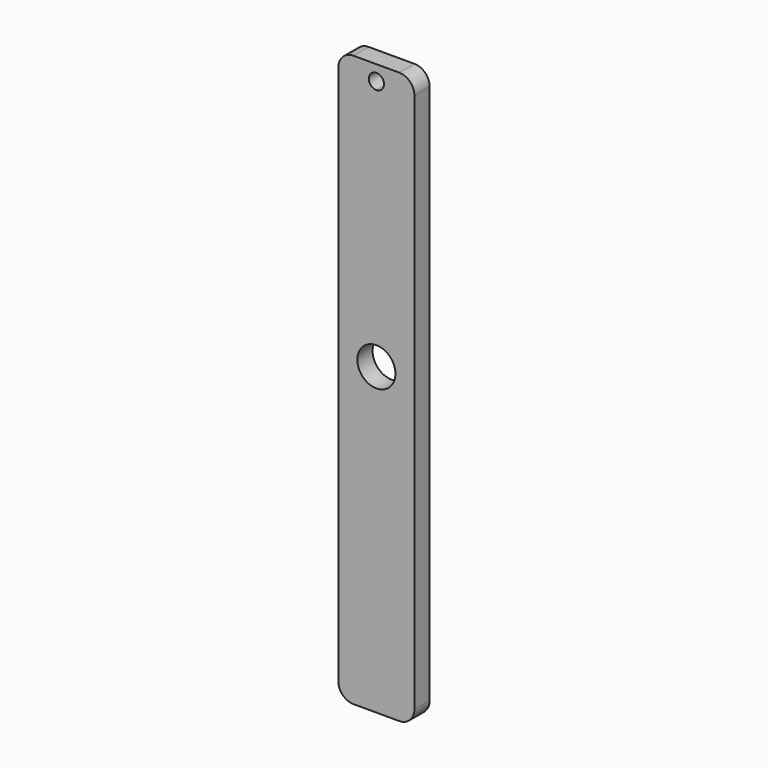
from build123d import *

# Parameters (mm, degrees)
F1_DEPTH = 6.35


with BuildPart() as f1:
    # F0 (on Front) → F1 (new body)
    with BuildSketch(Plane.XZ):
        with BuildLine():
            ThreePointArc((12.7, 90.17), (11.212102, 93.762102), (7.62, 95.25))
            Line((7.62, 95.25), (0, 95.25))
            Line((0, 95.25), (-7.62, 95.25))
            ThreePointArc((-7.62, 95.25), (-11.212102, 93.762102), (-12.7, 90.17))
            Line((-12.7, 90.17), (-12.7, -90.17))
            ThreePointArc((-12.7, -90.17), (-11.212102, -93.762102), (-7.62, -95.25))
            Line((-7.62, -95.25), (7.62, -95.25))
            ThreePointArc((7.62, -95.25), (11.212102, -93.762102), (12.7, -90.17))
            Line((12.7, -90.17), (12.7, 90.17))
        make_face()
        with BuildLine():
            ThreePointArc((6.35, 6.35), (-4.490128, 1.859872), (0, 12.7))
            ThreePointArc((0, 12.7), (4.490128, 10.840128), (6.35, 6.35))
        make_face(mode=Mode.SUBTRACT)
        with BuildLine():
            ThreePointArc((0, 87.63), (-2.54, 90.17), (0, 92.71))
            ThreePointArc((0, 92.71), (1.796051, 91.966051), (2.54, 90.17))
            ThreePointArc((2.54, 90.17), (1.796051, 88.373949), (0, 87.63))
        make_face(mode=Mode.SUBTRACT)
    extrude(amount=F1_DEPTH)


solid = f1.part
